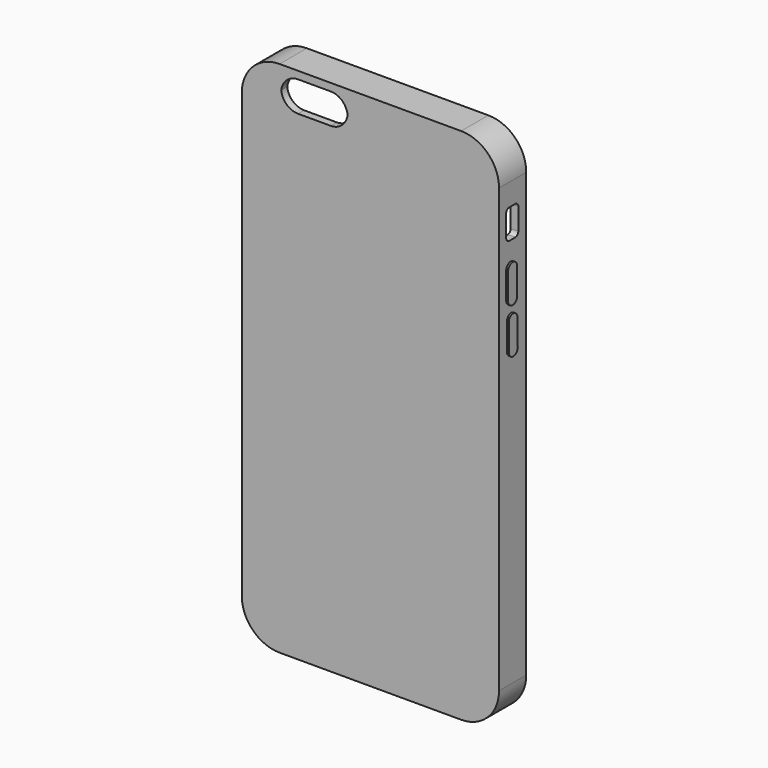
from build123d import *

# Parameters (mm, degrees)
F1_DEPTH  = 9
F2_T      = -2
F4_DEPTH  = 9.001
F6_DEPTH  = 25
F7_DEPTH  = 25
F8_DEPTH  = 1
F10_DEPTH = 25
F12_DEPTH = 0.5
F14_DEPTH = 0.5


with BuildPart() as f1:
    # F0 (on Front) → F1 (new body)
    with BuildSketch(Plane.XZ):
        with BuildLine():
            Line((20.5386653927, -45.6377468854), (20.5386653927, 71.3622531146))
            ThreePointArc((20.5386653927, 71.3622531146), (17.6097332046, 78.4333209264), (10.5386653927, 81.3622531146))
            Line((10.5386653927, 81.3622531146), (-37.4613346073, 81.3622531146))
            ThreePointArc((-37.4613346073, 81.3622531146), (-44.5324024191, 78.4333209264), (-47.4613346073, 71.3622531146))
            Line((-47.4613346073, 71.3622531146), (-47.4613346073, -45.6377468854))
            ThreePointArc((-47.4613346073, -45.6377468854), (-44.5324024191, -52.7088146973), (-37.4613346073, -55.6377468854))
            Line((-37.4613346073, -55.6377468854), (10.5386653927, -55.6377468854))
            ThreePointArc((10.5386653927, -55.6377468854), (17.6097332046, -52.7088146973), (20.5386653927, -45.6377468854))
        make_face()
    extrude(amount=F1_DEPTH)

    # F2
    f2_openings = [f1.faces().sort_by_distance(p)[0] for p in [
        (-13.461335, 0, 12.862253),
    ]]
    offset(amount=F2_T, openings=f2_openings)

    # F3 (on face) → F4 (cut, through all)
    with BuildSketch(Plane.XZ.offset(9)):
        with BuildLine():
            ThreePointArc((-32.564605879, 79.3622531146), (-35.564605879, 78.2163550808), (-37.036741834, 75.3622531146))
            ThreePointArc((-37.036741834, 75.3622531146), (-35.564605879, 72.5081511483), (-32.564605879, 71.3622531146))
            Line((-32.564605879, 71.3622531146), (-23.9613346073, 71.3622531146))
            ThreePointArc((-23.9613346073, 71.3622531146), (-20.9613346073, 72.5081511483), (-19.4891986523, 75.3622531146))
            ThreePointArc((-19.4891986523, 75.3622531146), (-20.9613346073, 78.2163550808), (-23.9613346073, 79.3622531146))
            Line((-23.9613346073, 79.3622531146), (-32.564605879, 79.3622531146))
        make_face()
    extrude(amount=-F4_DEPTH, mode=Mode.SUBTRACT)

    # F5 (on face) → F6 (cut)
    with BuildSketch(Plane(origin=(0, 0, -55.6377468854), x_dir=(1, 0, 0), z_dir=(0, 0, -1))):
        Polygon((-37.4613346073, 8), (-37.4613346073, 1), (-32.577522099, 1), (10.5386653927, 1), (10.5386653927, 8), (-32.6389931142, 8), align=None)
    extrude(amount=F6_DEPTH, mode=Mode.SUBTRACT)

    # F5 (on face) → F7 (cut)
    with BuildSketch(Plane(origin=(0, 0, -55.6377468854), x_dir=(1, 0, 0), z_dir=(0, 0, -1))):
        Polygon((-37.4613346073, 8), (-37.4613346073, 1), (-32.577522099, 1), (10.5386653927, 1), (10.5386653927, 8), (-32.6389931142, 8), align=None)
    extrude(amount=-F7_DEPTH, mode=Mode.SUBTRACT)

    # F8 (add): a face of the model
    f8_faces = [f1.faces().sort_by_distance(p)[0] for p in [
        (-13.4613346073, -8, -43.1377468854),
    ]]
    extrude(f8_faces, amount=F8_DEPTH)

    # F9 (on face) → F10 (cut)
    with BuildSketch(Plane.YZ.offset(20.5386653927)):
        with BuildLine():
            Line((-5.6193663515, 57.6836162011), (-4.6193663515, 57.6836162011))
            Line((-4.6193663515, 57.6836162011), (-3.6193663515, 57.6836162011))
            ThreePointArc((-3.6193663515, 57.6836162011), (-2.9122595703, 57.9765094199), (-2.6193663515, 58.6836162011))
            Line((-2.6193663515, 58.6836162011), (-2.6193663515, 64.4752531146))
            ThreePointArc((-2.6193663515, 64.4752531146), (-2.9122595703, 65.1823598958), (-3.6193663515, 65.4752531146))
            Line((-3.6193663515, 65.4752531146), (-4.6193663515, 65.4752531146))
            Line((-4.6193663515, 65.4752531146), (-5.6193663515, 65.4752531146))
            ThreePointArc((-5.6193663515, 65.4752531146), (-6.3264731327, 65.1823598958), (-6.6193663515, 64.4752531146))
            Line((-6.6193663515, 64.4752531146), (-6.6193663515, 58.6836162011))
            ThreePointArc((-6.6193663515, 58.6836162011), (-6.3264731327, 57.9765094199), (-5.6193663515, 57.6836162011))
        make_face()
    extrude(amount=-F10_DEPTH, mode=Mode.SUBTRACT)

    # F11 (on face) → F12 (join)
    with BuildSketch(Plane.YZ.offset(20.5386653927)):
        with BuildLine():
            Line((-3.6193663515, 44.1836162011), (-3.6193663515, 51.1836162011))
            ThreePointArc((-3.6193663515, 51.1836162011), (-4.0587061797, 52.2442763729), (-5.1193663515, 52.6836162011))
            ThreePointArc((-5.1193663515, 52.6836162011), (-6.1800265233, 52.2442763729), (-6.6193663515, 51.1836162011))
            Line((-6.6193663515, 51.1836162011), (-6.6193663515, 44.1836162011))
            ThreePointArc((-6.6193663515, 44.1836162011), (-6.1800265233, 43.1229560293), (-5.1193663515, 42.6836162011))
            ThreePointArc((-5.1193663515, 42.6836162011), (-4.0587061797, 43.1229560293), (-3.6193663515, 44.1836162011))
        make_face()
        with BuildLine():
            Line((-3.6193663515, 44.1836162011), (-3.6193663515, 51.1836162011))
            ThreePointArc((-3.6193663515, 51.1836162011), (-4.0587061797, 52.2442763729), (-5.1193663515, 52.6836162011))
            ThreePointArc((-5.1193663515, 52.6836162011), (-6.1800265233, 52.2442763729), (-6.6193663515, 51.1836162011))
            Line((-6.6193663515, 51.1836162011), (-6.6193663515, 44.1836162011))
            ThreePointArc((-6.6193663515, 44.1836162011), (-6.1800265233, 43.1229560293), (-5.1193663515, 42.6836162011))
            ThreePointArc((-5.1193663515, 42.6836162011), (-4.0587061797, 43.1229560293), (-3.6193663515, 44.1836162011))
        make_face()
    extrude(amount=F12_DEPTH)


with BuildPart() as f14:
    # F13 (on face) → F14 (new body)
    with BuildSketch(Plane.YZ.offset(20.5386653927)):
        with BuildLine():
            ThreePointArc((-5.0636678894, 40.7050617311), (-5.0294926963, 40.70521957), (-4.9953227773, 40.7045987809))
            ThreePointArc((-4.9953227773, 40.7045987809), (-4.9611902501, 40.7063132258), (-4.927027523, 40.7072496107))
            Line((-4.927027523, 40.7072496107), (-5.0636678894, 40.7050617311))
        make_face()
    extrude(amount=F14_DEPTH)


with BuildPart() as f14b:
    # F13 (on face) → F14, piece 2 (new body)
    with BuildSketch(Plane.YZ.offset(20.5386653927)):
        with BuildLine():
            ThreePointArc((-4.9030126669, 30.6836162011), (-4.9090652684, 30.6836284125), (-4.9151177714, 30.6836650464))
            ThreePointArc((-4.9151177714, 30.6836650464), (-4.9211702745, 30.6836284125), (-4.927222876, 30.6836162011))
            Line((-4.927222876, 30.6836162011), (-4.9030126669, 30.6836162011))
        make_face()
    extrude(amount=F14_DEPTH)


with BuildPart() as f14c:
    # F13 (on face) → F14, piece 3 (new body)
    with BuildSketch(Plane.YZ.offset(20.5386653927)):
        with BuildLine():
            Line((-6.4030126669, 39.2074418608), (-6.4030126669, 32.1836162011))
            ThreePointArc((-6.4030126669, 32.1836162011), (-5.9679440395, 31.1272444997), (-4.9151177714, 30.6836650464))
            ThreePointArc((-4.9151177714, 30.6836650464), (-3.8538691503, 31.1358033459), (-3.4274151261, 32.2076310572))
            Line((-3.4274151261, 32.2076310572), (-3.5398452833, 39.2292688374))
            ThreePointArc((-3.5398452833, 39.2292688374), (-3.9718327507, 40.2587053774), (-4.9953227773, 40.7045987809))
            ThreePointArc((-4.9953227773, 40.7045987809), (-5.9958221575, 40.2349472949), (-6.4030126669, 39.2074418608))
        make_face()
    extrude(amount=F14_DEPTH)


solid = Compound([f1.part, f14.part, f14b.part, f14c.part])
